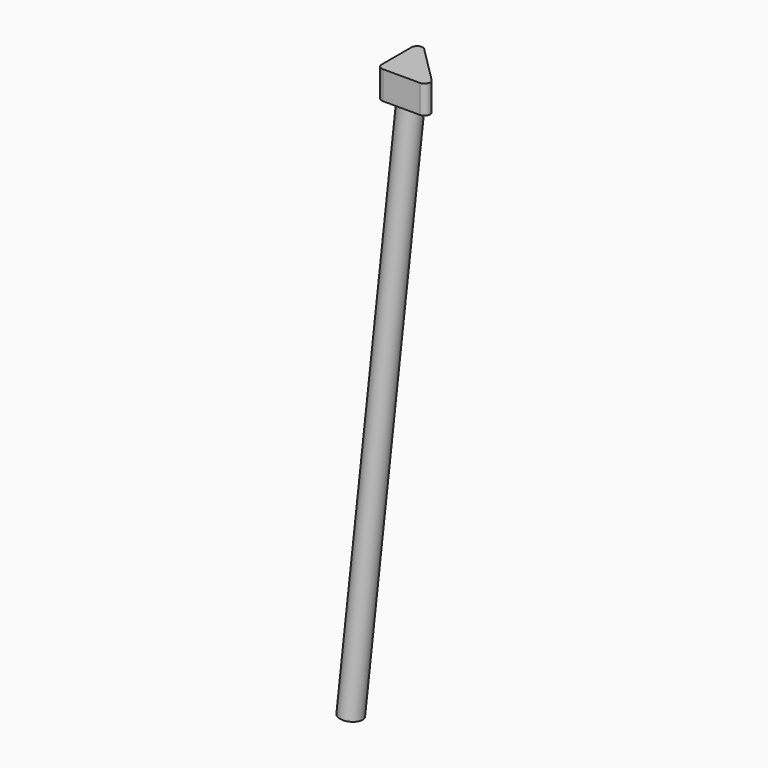
from build123d import *

# Parameters (mm, degrees)
F1_R     = 10
F2_DEPTH = 500
F3_ANGLE = -5
F6_DEPTH = 25


with BuildPart() as f2:
    # F1 (on Top) → F2 (new body)
    with BuildSketch(Plane.XY):
        Circle(F1_R)
    extrude(amount=-F2_DEPTH)


with BuildPart() as f2_1:
    # F3: moved
    add(f2.part.rotate(Axis((25, 25, 0), (0.7071067812, -0.7071067812, 0)), F3_ANGLE))


with BuildPart() as f2_2:
    # F4: moved
    add(f2_1.part.moved(Location((17.6776695297, 17.6776695297, 0))))


with BuildPart() as f2_3:
    # F5: moved
    add(f2_2.part.moved(Location((0, 0, -10))))


with BuildPart() as f6:
    # F0 (on Top) → F6 (new body)
    with BuildSketch(Plane.XY):
        with BuildLine():
            Line((0, 37.9289321881), (0, 5))
            ThreePointArc((0, 5), (1.4644660941, 1.4644660941), (5, 0))
            Line((5, 0), (37.9289321881, 0))
            ThreePointArc((37.9289321881, 0), (42.5483298507, 3.0865828382), (41.4644660941, 8.5355339059))
            Line((41.4644660941, 8.5355339059), (8.5355339059, 41.4644660941))
            ThreePointArc((8.5355339059, 41.4644660941), (3.0865828382, 42.5483298507), (0, 37.9289321881))
        make_face()
    extrude(amount=-F6_DEPTH)


solid = Compound([f2_3.part, f6.part])
